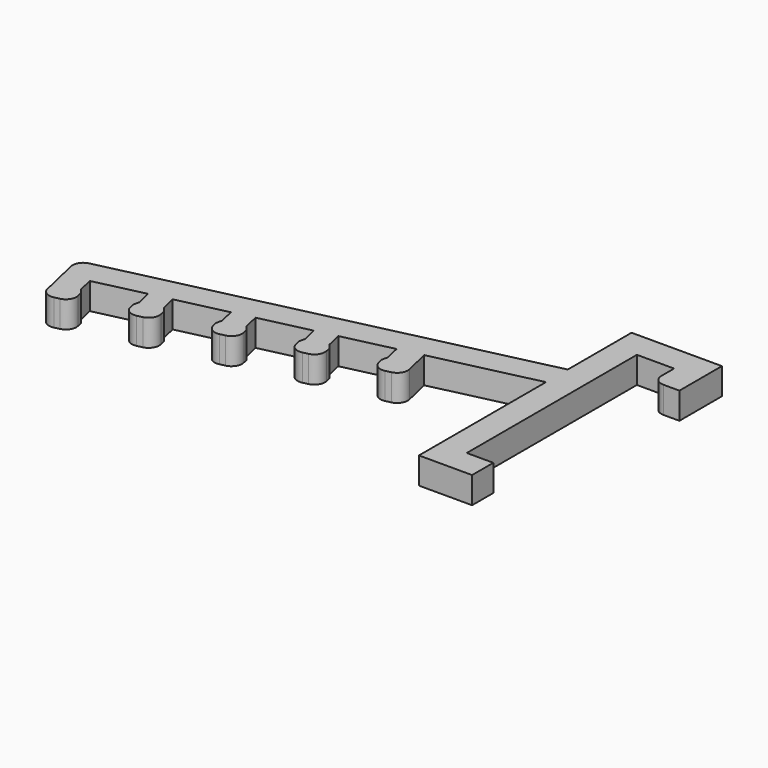
from build123d import *

# Parameters (mm, degrees)
F0_W     = 5
F0_H     = 5
F1_DEPTH = 5
F2_R     = 2


with BuildPart() as f1:
    # F0 (on Top) → F1 (new body)
    with BuildSketch(Plane.XY):
        Polygon((2.5, 20), (2.5, 25), (-2.5, 25), (-2.5, 10), (-2.5, 4.868479), (-2.5, -25), (2.5, -25), (2.5, -20), align=None)
        Polygon((14.5, 25), (2.5, 25), (2.5, 20), (9.5, 20), (14.5, 20), align=None)
        Polygon((-2.5, 4.868479), (-2.5, 10), (-80.449605, -7.996084), (-79.32485, -12.867935), (-74.940185, -11.855655), (-65.683669, -9.71862), (-61.786189, -8.818816), (-52.529673, -6.681781), (-48.632193, -5.781976), (-39.375677, -3.644941), (-35.478197, -2.745137), (-26.221681, -0.608102), (-21.837016, 0.404178), align=None)
        with Locations((5, -22.5)):
            Rectangle(F0_W, F0_H)
        with Locations((12, 17.5)):
            Rectangle(F0_W, F0_H)
        Polygon((-20.262359, -6.416413), (-21.837016, 0.404178), (-26.221681, -0.608102), (-25.546828, -3.531212), (-25.809062, -4.618058), (-25.134209, -7.541168), align=None)
        Polygon((-74.940185, -11.855655), (-79.32485, -12.867935), (-77.750193, -19.688525), (-72.878342, -18.56377), (-73.553195, -15.64066), (-74.265331, -14.778765), align=None)
        Polygon((-34.803344, -5.668247), (-35.478197, -2.745137), (-39.375677, -3.644941), (-38.700824, -6.568052), (-38.963058, -7.654897), (-38.288205, -10.578007), (-33.416355, -9.453252), (-34.091208, -6.530142), align=None)
        Polygon((-61.786189, -8.818816), (-65.683669, -9.71862), (-65.008816, -12.64173), (-65.27105, -13.728576), (-64.596197, -16.651686), (-59.724346, -15.526931), (-60.399199, -12.60382), (-61.111336, -11.741926), align=None)
        Polygon((-47.95734, -8.705087), (-48.632193, -5.781976), (-52.529673, -6.681781), (-51.85482, -9.604891), (-52.117054, -10.691736), (-51.442201, -13.614847), (-46.57035, -12.490091), (-47.245204, -9.566981), align=None)
    extrude(amount=F1_DEPTH)

    # F2
    f2_edges = [f1.edges().sort_by_distance(p)[0] for p in [
        (-72.878342, -18.56377, 2.5),
        (-64.596197, -16.651686, 2.5),
        (-59.724346, -15.526931, 2.5),
        (-51.442201, -13.614847, 2.5),
        (-46.57035, -12.490091, 2.5),
        (-38.288205, -10.578007, 2.5),
        (-33.416355, -9.453252, 2.5),
        (-25.134209, -7.541168, 2.5),
        (-77.750193, -19.688525, 2.5),
        (-80.449605, -7.996084, 2.5),
        (-20.262359, -6.416413, 2.5),
        (9.5, 15, 2.5),
    ]]
    fillet(f2_edges, radius=F2_R)


solid = f1.part
